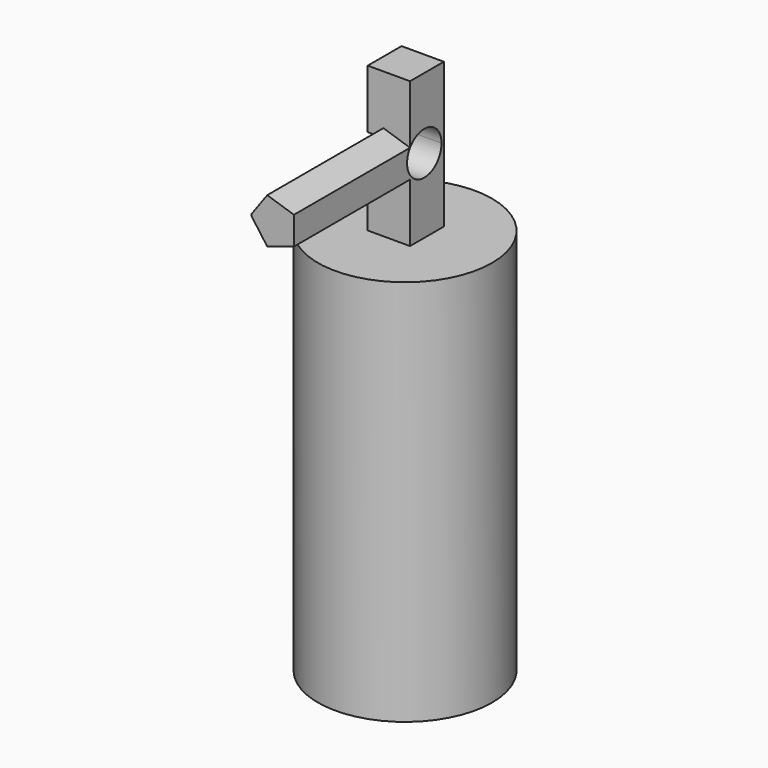
from build123d import *

# Parameters (mm, degrees)
F0_R     = 45.728615
F1_DEPTH = 203.2
F2_W     = 22.199646
F2_H     = 22.19965
F3_DEPTH = 76.2
F5_DEPTH = 76.2
F7_DEPTH = 25.4


with BuildPart() as f1:
    # F0 (on Top) → F1 (new body)
    with BuildSketch(Plane.XY):
        Circle(F0_R)
    extrude(amount=F1_DEPTH)

    # F2 (on face) → F3 (join)
    with BuildSketch(Plane.XY.offset(203.2)):
        with Locations((-0.98564, 1.738166)):
            Rectangle(F2_W, F2_H)
    extrude(amount=F3_DEPTH)

    # F4 (on face) → F5 (join)
    with BuildSketch(Plane.XZ.offset(9.361659)):
        Polygon((10.114183, 233.951616), (10.114183, 248.648384), (-3.863274, 253.189935), (-12.085463, 241.873063), (-12.085463, 240.726937), (-3.863274, 229.410065), align=None)
    extrude(amount=F5_DEPTH)

    # F6 (on face) → F7 (cut)
    with BuildSketch(Plane.YZ.offset(10.114183)):
        with BuildLine():
            ThreePointArc((-9.361659, 248.648384), (-3.309659, 231.514529), (11.300335, 242.319331))
            ThreePointArc((11.300335, 242.319331), (3.309659, 253.124132), (-9.361659, 248.648384))
        make_face()
    extrude(amount=-F7_DEPTH, mode=Mode.SUBTRACT)


solid = f1.part
